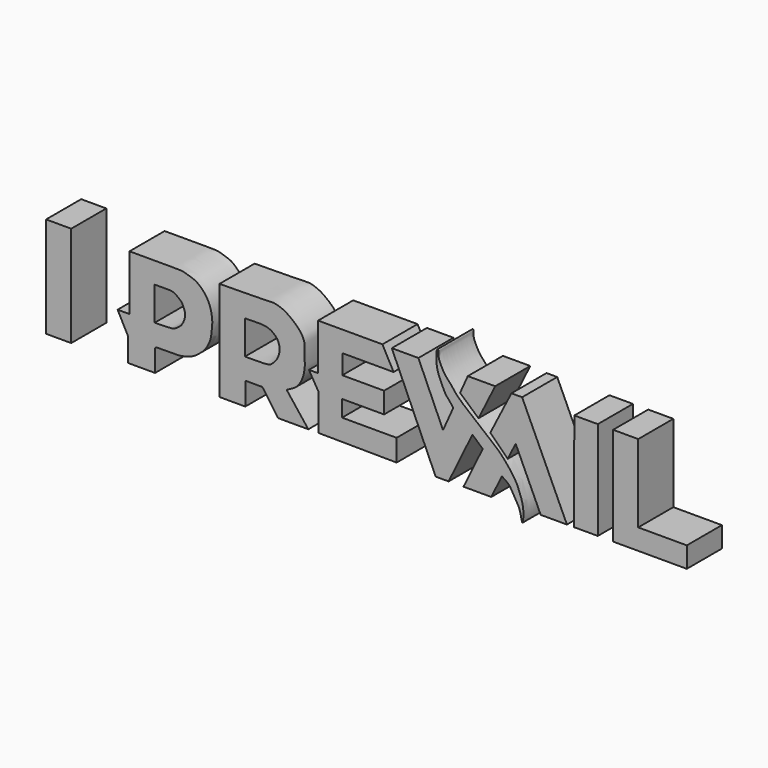
from build123d import *

# Parameters (mm, degrees)
F1_DEPTH = 7.62


with BuildPart() as f1:
    # F0 (on Front) → F1 (new body)
    with BuildSketch(Plane.XZ):
        with BuildLine():
            Line((-40.9290343523, -1.1512045749), (-42.9976284504, -1.1512045749))
            Line((-42.9976284504, -1.1512045749), (-41.1664135754, -4.6440740116))
            Line((-41.1664135754, -4.6440740116), (-41.1664135754, -8.713436313))
            Line((-41.1664135754, -8.713436313), (-36.4866442978, -8.713436313))
            Line((-36.4866442978, -8.713436313), (-36.4866442978, -4.9492763355))
            add(Edge.make_bspline(
                [(-40.9290343523, 8.4457080811), (-38.0568173616, 8.427281088), (-33.8970375098, 8.4311468923), (-32.4573767251, 8.4691557011), (-31.4455067551, 8.3706517576), (-30.5452018928, 8.0511283405), (-29.3479783266, 7.7118033275), (-28.3460847464, 6.8164987434), (-27.6480616592, 6.0353568876), (-27.0831862786, 4.9787597949), (-26.6662382353, 3.7880500381), (-26.4736641788, 2.036644064), (-26.7069810318, 0.6360046646), (-26.765324361, -0.4588174616), (-27.5912655927, -2.0893833335), (-28.3031583033, -2.8697748549), (-29.6277206252, -3.9198594673), (-30.8291236629, -4.4563921982), (-32.4619291943, -4.7303201321), (-33.7619058612, -4.6608734623), (-35.6502547279, -4.7581571432), (-36.4051516585, -4.6776827053), (-36.4866442978, -4.9492763355)],
                knots=[0, 0, 0, 0, 0.1104096818, 0.1576539716, 0.197135181, 0.2372805374, 0.282923205, 0.3301490467, 0.3722772764, 0.4164274717, 0.4628328176, 0.5173213235, 0.5658767425, 0.6091309738, 0.6633355142, 0.7066551758, 0.7588938569, 0.8067915707, 0.858390013, 0.9064541204, 0.9638732844, 1, 1, 1, 1], degree=3))
            Line((-40.9290343523, 8.4457080811), (-40.9290343523, -1.1512045749))
        make_face()
        with BuildLine():
            Line((-36.5544706583, -1.0494706221), (-36.5544706583, 4.7832820565))
            add(Edge.make_bspline(
                [(-36.5544706583, 4.7832820565), (-35.6561793671, 4.800967438), (-34.1788887194, 4.8300520447), (-33.110991543, 4.6766527886), (-32.4945061005, 4.1281204769), (-31.8846456265, 3.7192942336), (-31.4657078386, 2.8062418063), (-31.1285620181, 1.8069468371), (-31.5615168723, 0.6087519555), (-31.9430094897, -0.0209610972), (-32.5820108112, -0.489111998), (-33.1777942508, -0.9018921663), (-33.9379719316, -1.004501116), (-35.5138718414, -1.0315859526), (-36.5544706583, -1.0494706221)],
                knots=[0, 0, 0, 0, 0.1255075663, 0.2064042653, 0.2767457167, 0.3447651635, 0.4238291723, 0.5061716846, 0.594653451, 0.6637168964, 0.7343282264, 0.8007696699, 0.868444154, 1, 1, 1, 1], degree=3))
        make_face(mode=Mode.SUBTRACT)
    extrude(amount=F1_DEPTH)


with BuildPart() as f1b:
    # F0 (on Front) → F1, piece 2 (new body)
    with BuildSketch(Plane.XZ):
        Polygon((-51.0549023747, 8.6101470515), (-55.417843163, 8.6101470515), (-55.4091818631, -8.8829929009), (-51.0549023747, -8.8829929009), align=None)
    extrude(amount=F1_DEPTH)


with BuildPart() as f1c:
    # F0 (on Front) → F1, piece 3 (new body)
    with BuildSketch(Plane.XZ):
        Polygon((-8.1179561093, -2.3249371443), (-8.1179561093, -8.6553795263), (5.4685133509, -8.773624897), (5.4685133509, -4.9828290939), (-4.0084770881, -4.9828290939), (-4.0084770881, -2.1195679437), (3.2908222638, -2.1195679437), (3.2908222638, 1.5099179), (-3.9681494236, 1.5099179), (-3.9681494236, 4.8974379897), (4.9442541786, 4.8974379897), (3.0060731806, 8.5059162229), (-8.1681162119, 8.5059162229), (-8.1681162119, 0.456620648), (-9.7610568628, 0.456620648), align=None)
    extrude(amount=F1_DEPTH)


with BuildPart() as f1d:
    # F0 (on Front) → F1, piece 4 (new body)
    with BuildSketch(Plane.XZ):
        with BuildLine():
            Line((9.2498566955, 8.4516257048), (4.6302755363, 8.4516257048))
            Line((4.6302755363, 8.4516257048), (12.250151325, -8.7184935733))
            Line((12.250151325, -8.7184935733), (14.4967883825, -8.7184935733))
            Line((14.4967883825, -8.7184935733), (18.6315979809, -0.2172184759))
            Line((18.6315979809, -0.2172184759), (20.4281024635, -1.8141109031))
            Line((20.4281024635, -1.8141109031), (17.0874101802, -8.6826603345))
            Line((17.0874101802, -8.6826603345), (21.9147969037, -8.6826603345))
            Line((21.9147969037, -8.6826603345), (23.7480963407, -4.9133494439))
            add(Edge.make_bspline(
                [(23.7480963407, -4.9133494439), (24.1901777434, -5.1931790501), (25.0109157523, -5.7126915028), (25.5244681096, -6.6555287063), (26.4168198308, -8.110486902), (26.9566030613, -9.1215208377), (27.2667515271, -11.1913183701), (27.4310614822, -10.5175420094), (27.5518261671, -9.3287811243), (27.3392620038, -7.7735643281), (26.8525026021, -6.3913679176), (26.3539049146, -5.1301762256), (25.5665248175, -3.9262023135), (24.5554346213, -2.6466114355), (23.3758378324, -1.2788645249), (21.6048838906, 0.1403617514), (19.7751032987, 1.5853777985), (17.838733816, 3.2722346113), (16.4242784923, 4.3893214862), (15.3949831475, 5.5532264423), (14.8438126936, 6.3647561543), (13.8749001366, 7.3018941639), (13.1110246979, 8.6597395008), (12.6156934542, 9.9296021259), (12.8051252633, 10.890840898), (12.4184984351, 10.8448072976), (12.4387675532, 10.2401879937), (12.3147039671, 8.7477431608), (12.6606001855, 7.2423880325), (13.1519786404, 6.1908698147), (13.8880014899, 4.4008586837), (14.7268108179, 3.6204263961), (15.110007644, 3.032586171), (15.2952354401, 2.7484388556)],
                knots=[0, 0, 0, 0, 0.0337241294, 0.0626099053, 0.0980069028, 0.1311749, 0.1661276125, 0.1804902704, 0.2117319953, 0.2470632873, 0.2807782924, 0.3130352779, 0.3462844669, 0.381739347, 0.419191721, 0.4609594488, 0.5040532245, 0.5486425272, 0.5864566436, 0.6204932003, 0.6479892839, 0.679895734, 0.714941406, 0.7482541666, 0.7727554582, 0.7844010674, 0.8040909986, 0.8387766167, 0.8732474788, 0.9037612627, 0.942045261, 0.9719861235, 1, 1, 1, 1], degree=3))
            Line((15.2952354401, 2.7484388556), (13.5272471234, -1.1867602589))
            Line((13.5272471234, -1.1867602589), (9.2498566955, 8.4516257048))
        make_face()
    extrude(amount=F1_DEPTH)


with BuildPart() as f1e:
    # F0 (on Front) → F1, piece 5 (new body)
    with BuildSketch(Plane.XZ):
        Polygon((17.8297702223, 8.4702102467), (16.4897367358, 5.4754894227), (19.6943599731, 2.6269357186), (22.5884299725, 8.4702102467), align=None)
    extrude(amount=F1_DEPTH)


with BuildPart() as f1f:
    # F0 (on Front) → F1, piece 6 (new body)
    with BuildSketch(Plane.XZ):
        Polygon((25.4113618284, 8.3088995889), (21.7415522784, 1.0902554495), (24.7661229223, -1.9343162421), (26.1429122581, 0.8454914536), (30.492644757, -8.6287008598), (35.0496657193, -8.6287008598), (27.2664334625, 8.3088995889), align=None)
    extrude(amount=F1_DEPTH)


with BuildPart() as f1g:
    # F0 (on Front) → F1, piece 7 (new body)
    with BuildSketch(Plane.XZ):
        Polygon((36.3401472569, 8.4702102467), (36.2594947219, -8.6287017912), (40.4132381082, -8.6287017912), (40.4132381082, 8.4702102467), align=None)
    extrude(amount=F1_DEPTH)


with BuildPart() as f1h:
    # F0 (on Front) → F1, piece 8 (new body)
    with BuildSketch(Plane.XZ):
        Polygon((47.4353581667, 8.4702102467), (43.0711880326, 8.4702102467), (43.0711917579, -8.6287017912), (55.8759495616, -8.6287017912), (55.8759495616, -5.0384066999), (47.4353581667, -5.0384066999), align=None)
    extrude(amount=F1_DEPTH)


with BuildPart() as f1i:
    # F0 (on Front) → F1, piece 9 (new body)
    with BuildSketch(Plane.XZ):
        with BuildLine():
            Line((-25.2952538431, 8.5526956245), (-25.2952538431, -8.7564755231))
            Line((-25.2952538431, -8.7564755231), (-20.8182521164, -8.7564755231))
            Line((-20.8182521164, -8.7564755231), (-20.8182521164, -4.792760592))
            Line((-20.8182521164, -4.792760592), (-17.852595076, -4.792760592))
            Line((-17.852595076, -4.792760592), (-15.1435807347, -8.6709279567))
            Line((-15.1435807347, -8.6709279567), (-9.8681310192, -8.6709279567))
            Line((-9.8681310192, -8.6709279567), (-13.6322351173, -3.8517354988))
            add(Edge.make_bspline(
                [(-13.6322351173, -3.8517354988), (-13.4266533846, -3.7418731333), (-12.9734681391, -3.4996920677), (-12.0058497869, -3.0038075959), (-11.2317790331, -2.0583995479), (-10.6998734387, -0.7908512638), (-10.4234646732, 0.6702694466), (-10.4943019769, 2.6085995403), (-10.4519836902, 4.227722041), (-10.8489384196, 5.3177768013), (-11.7713766095, 6.4726697872), (-12.8504782576, 7.3602321264), (-13.9910997189, 8.1817888532), (-15.7664225182, 8.7955803866), (-17.4513145885, 8.626663343), (-22.0900565622, 8.582920378), (-25.2952538431, 8.5526956245)],
                knots=[0, 0, 0, 0, 0.0474119396, 0.1045150813, 0.1652476321, 0.2294147049, 0.2968585514, 0.3743901123, 0.4444275768, 0.502926162, 0.5694000752, 0.6347418024, 0.7007743078, 0.7734736518, 0.8434787623, 1, 1, 1, 1], degree=3))
        make_face()
        with BuildLine():
            add(Edge.make_bspline(
                [(-20.874755457, 4.7248732299), (-19.655744099, 4.7753620014), (-17.6512647614, 4.8583831304), (-16.3030861103, 4.4044952705), (-15.1830749862, 3.4761524343), (-14.7422630704, 2.1153942257), (-15.0473854942, 0.478113384), (-15.9866597996, -0.520126131), (-16.5802379708, -1.1184901534), (-18.9615289021, -1.11739072), (-20.2495768527, -1.1231799285), (-20.874755457, -1.1259898311)],
                knots=[0, 0, 0, 0, 0.1570498834, 0.2582447196, 0.3589735539, 0.4607436029, 0.571191312, 0.6702539725, 0.7469550619, 0.8771798199, 1, 1, 1, 1], degree=3))
            Line((-20.874755457, -1.1259898311), (-20.874755457, 4.7248732299))
        make_face(mode=Mode.SUBTRACT)
    extrude(amount=F1_DEPTH)


solid = Compound([f1.part, f1b.part, f1c.part, f1d.part, f1e.part, f1f.part, f1g.part, f1h.part, f1i.part])
